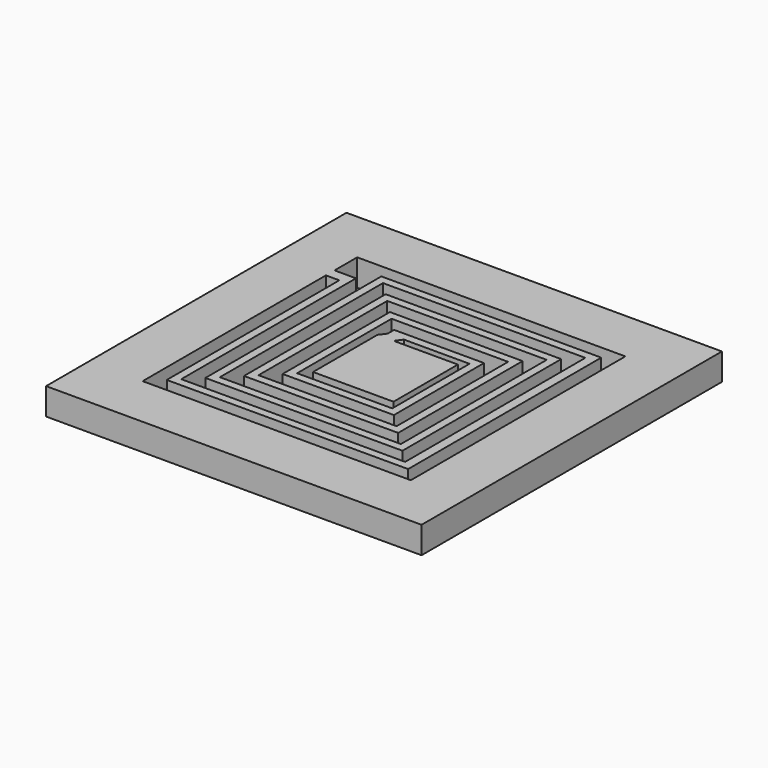
from build123d import *

# Parameters (mm, degrees)
F0_W     = 14
F0_H     = 14
F1_DEPTH = 1


with BuildPart() as f1:
    # F0 (on Top) → F1 (new body)
    with BuildSketch(Plane.XY):
        with Locations((-28.54838, 5)):
            Rectangle(F0_W, F0_H)
        Polygon((-33.54838, 8.943743), (-33.54838, 10), (-23.54838, 10), (-23.54838, 0), (-33.54838, 0), (-33.54838, 8.54226), align=None, mode=Mode.SUBTRACT)
        Polygon((-33.04838, 8.943743), (-33.54838, 8.943743), (-33.54838, 8.54226), (-33.04838, 8.54226), (-33.04838, 0.8), (-33.04838, 0.5), (-24.04838, 0.5), (-24.04838, 0.8), (-24.04838, 9.5), (-24.400045, 9.5), (-32.24838, 9.5), (-32.24838, 9.2), (-32.24838, 1.3), (-31.94838, 1.3), (-24.900045, 1.3), (-24.900045, 1.6), (-24.900045, 8.7), (-25.200045, 8.7), (-31.44838, 8.7), (-31.44838, 8.4), (-31.44838, 2.1), (-31.14838, 2.1), (-25.700045, 2.1), (-25.700045, 2.4), (-25.700045, 7.9), (-26.000045, 7.9), (-30.64838, 7.9), (-30.64838, 7.6), (-30.64838, 2.9), (-30.34838, 2.9), (-26.500045, 2.9), (-26.500045, 3.2), (-26.500045, 7.1), (-26.800045, 7.1), (-29.84838, 7.1), (-29.84838, 6.8), (-30.034563, 6.550955), (-30.034563, 3.550955), (-27.034563, 3.550955), (-27.034563, 6.550955), (-29.420246, 6.550955), (-29.248735, 6.8), (-26.800045, 6.8), (-26.800045, 3.2), (-30.34838, 3.2), (-30.34838, 7.6), (-26.000045, 7.6), (-26.000045, 2.4), (-31.14838, 2.4), (-31.14838, 8.4), (-25.200045, 8.4), (-25.200045, 1.6), (-31.94838, 1.6), (-31.94838, 9.2), (-24.400045, 9.2), (-24.400045, 0.8), (-32.74838, 0.8), (-32.74838, 8.943743), align=None)
    extrude(amount=F1_DEPTH)


solid = f1.part
